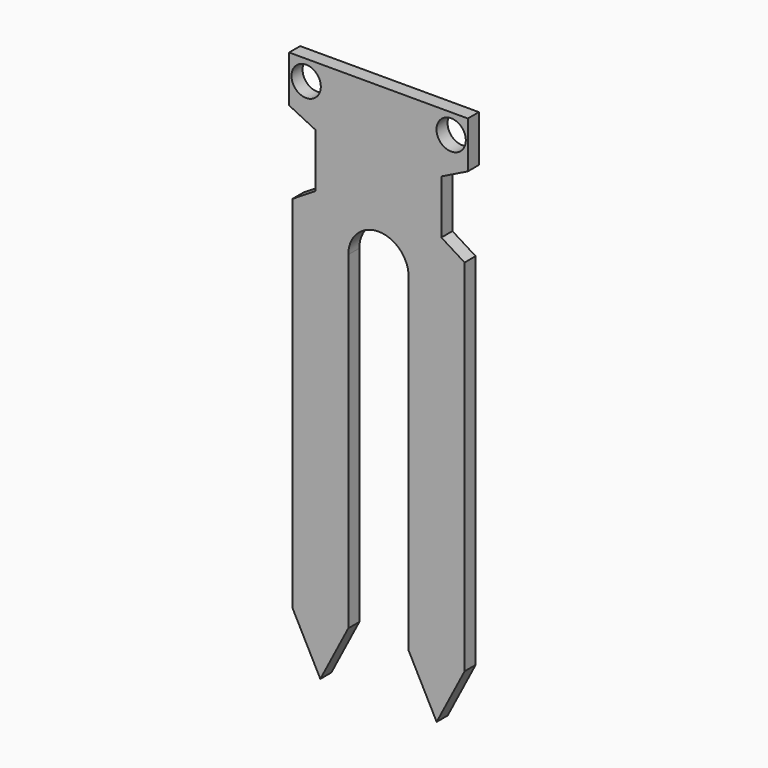
from build123d import *

# Parameters (mm, degrees)
F0_R     = 1.655
F1_DEPTH = 1.56


with BuildPart() as f1:
    # F0 (on Front) → F1 (new body)
    with BuildSketch(Plane.XZ):
        with BuildLine():
            Line((10.085, 0), (0, 0))
            Line((0, 0), (-10.085, 0))
            Line((-10.085, 0), (-10.085, -5.26))
            Line((-10.085, -5.26), (-7.1, -6.728711))
            Line((-7.1, -6.728711), (-7.1, -12.798711))
            Line((-7.1, -12.798711), (-9.72, -14.433227))
            Line((-9.72, -14.433227), (-9.72, -17.923227))
            Line((-9.72, -17.923227), (-9.72, -55.053227))
            Line((-9.72, -55.053227), (-6.565, -61.110856))
            Line((-6.565, -61.110856), (-3.41, -55.053227))
            Line((-3.41, -55.053227), (-3.41, -17.923227))
            ThreePointArc((-3.41, -17.923227), (0, -14.513227), (3.41, -17.923227))
            Line((3.41, -17.923227), (3.41, -55.053227))
            Line((3.41, -55.053227), (6.565, -61.110856))
            Line((6.565, -61.110856), (9.72, -55.053227))
            Line((9.72, -55.053227), (9.72, -17.923227))
            Line((9.72, -17.923227), (9.72, -14.433227))
            Line((9.72, -14.433227), (7.1, -12.798711))
            Line((7.1, -12.798711), (7.1, -6.728711))
            Line((7.1, -6.728711), (10.085, -5.26))
            Line((10.085, -5.26), (10.085, 0))
        make_face()
        with Locations((-8.163275, -2.244631)):
            Circle(F0_R, mode=Mode.SUBTRACT)
        with Locations((8.2057, -2.244631)):
            Circle(F0_R, mode=Mode.SUBTRACT)
    extrude(amount=F1_DEPTH)


solid = f1.part
